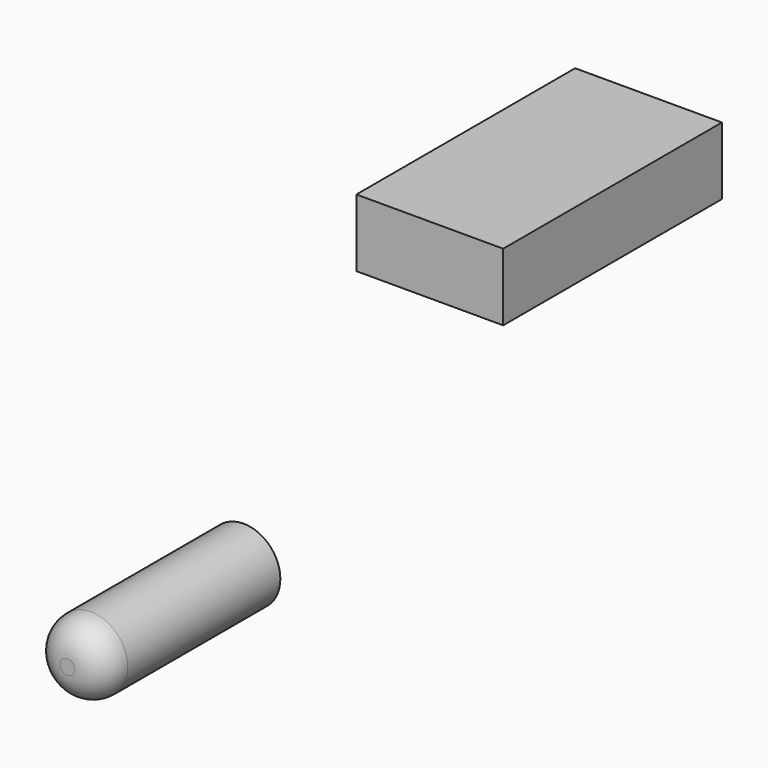
from build123d import *

# Parameters (mm, degrees)
F0_R     = 6.35
F1_DEPTH = 38.1
F2_R     = 5.08
F3_W     = 47.305185
F3_H     = 11.680291
F4_DEPTH = 25.4


with BuildPart() as f1:
    # F0 (on Front) → F1 (new body)
    with BuildSketch(Plane.XZ):
        Circle(F0_R)
    extrude(amount=F1_DEPTH)

    # F2
    f2_edges = [f1.edges().sort_by_distance(p)[0] for p in [
        (-6.35, -38.1, 0),
    ]]
    fillet(f2_edges, radius=F2_R)


with BuildPart() as f4:
    # F3 (on Right) → F4 (new body)
    with BuildSketch(Plane.YZ):
        with Locations((48.035202, 40.735017)):
            Rectangle(F3_W, F3_H)
    extrude(amount=F4_DEPTH)


solid = Compound([f1.part, f4.part])
